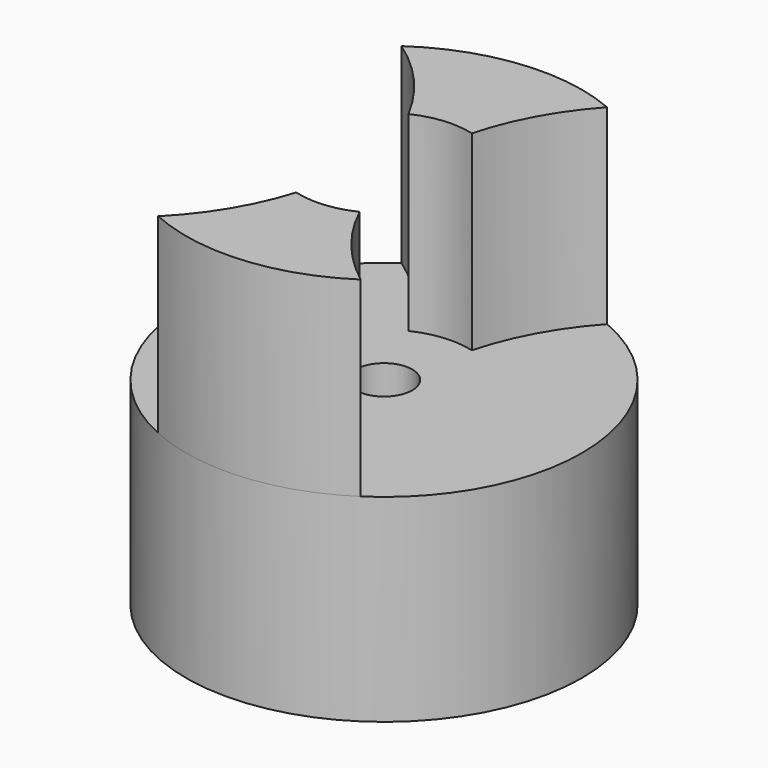
from build123d import *

# Parameters (mm, degrees)
F0_R     = 7
F1_DEPTH = 7
F3_DEPTH = 6.75
F4_R     = 3
F5_DEPTH = 6.75
F6_R     = 1
F7_DEPTH = 13.751


with BuildPart() as f1:
    # F0 (on Top) → F1 (new body)
    with BuildSketch(Plane.XY):
        Circle(F0_R)
    extrude(amount=F1_DEPTH)

    # F2 (on face) → F3 (join)
    with BuildSketch(Plane.XY.offset(7)):
        with BuildLine():
            ThreePointArc((2.9875473685, 0.273058091), (2.2988535655, 1.9275041594), (0.7898544942, 2.8941544323))
            ThreePointArc((0.7898544942, 2.8941544323), (-0.273058091, 2.9875473685), (-1.3014286637, 2.7030137686))
            ThreePointArc((-1.3014286637, 2.7030137686), (-2.6101876905, 1.4788239315), (-2.9875473685, -0.273058091))
            Line((-2.9875473685, -0.273058091), (2.9875473685, 0.273058091))
        make_face()
        with BuildLine():
            ThreePointArc((-1.3014286637, 2.7030137686), (-0.273058091, 2.9875473685), (0.7898544942, 2.8941544323))
            ThreePointArc((0.7898544942, 2.8941544323), (1.5438295644, 4.7878332543), (2.7289268388, 6.4461584148))
            ThreePointArc((2.7289268388, 6.4461584148), (-0.7171765928, 6.9631643478), (-3.9855530681, 5.7545952717))
            ThreePointArc((-3.9855530681, 5.7545952717), (-2.4574856727, 4.3924118424), (-1.3014286637, 2.7030137686))
        make_face()
        with BuildLine():
            ThreePointArc((3, 0), (2.9968852252, 0.1366709452), (2.9875473685, 0.273058091))
            Line((2.9875473685, 0.273058091), (-2.9875473685, -0.273058091))
            ThreePointArc((-2.9875473685, -0.273058091), (-2.2988535655, -1.9275041594), (-0.7898544942, -2.8941544323))
            ThreePointArc((-0.7898544942, -2.8941544323), (0.273058091, -2.9875473685), (1.3014286637, -2.7030137686))
            ThreePointArc((1.3014286637, -2.7030137686), (2.5401068867, -1.5962008033), (3, 0))
        make_face()
        with BuildLine():
            ThreePointArc((1.3014286637, -2.7030137686), (0.273058091, -2.9875473685), (-0.7898544942, -2.8941544323))
            ThreePointArc((-0.7898544942, -2.8941544323), (-1.6204974061, -4.7651343928), (-2.8763053334, -6.3817605431))
            ThreePointArc((-2.8763053334, -6.3817605431), (0.5570104085, -6.9778033366), (3.8522907412, -5.8446433634))
            ThreePointArc((3.8522907412, -5.8446433634), (2.3862030644, -4.4286331899), (1.3014286637, -2.7030137686))
        make_face()
    extrude(amount=F3_DEPTH)

    # F4 (on face) → F5 (cut)
    with BuildSketch(Plane.XY.offset(13.75)):
        Circle(F4_R)
    extrude(amount=-F5_DEPTH, mode=Mode.SUBTRACT)

    # F6 (on face) → F7 (cut, through all)
    with BuildSketch(Plane(origin=(0, 0, 0), x_dir=(1, 0, 0), z_dir=(0, 0, -1))):
        Circle(F6_R)
    extrude(amount=-F7_DEPTH, mode=Mode.SUBTRACT)


solid = f1.part
